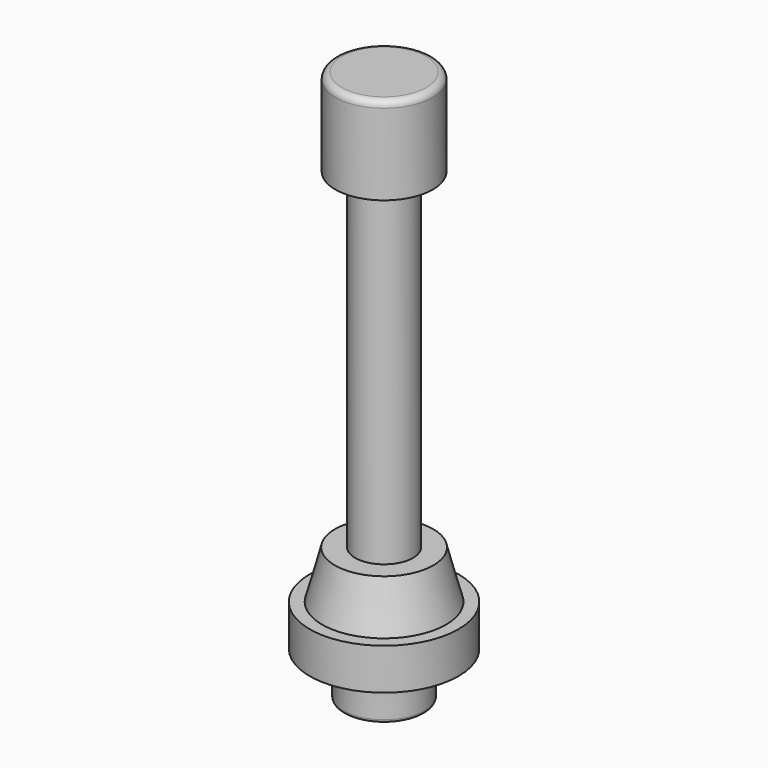
from build123d import *

# Parameters (mm, degrees)
F0_R      = 11.43
F1_DEPTH  = 6.35
F2_R      = 9.525
F3_DEPTH  = 7.366
F3_TAPER  = 15
F4_R      = 5.3975
F5_DEPTH  = 6.35
F6_R      = 3.683
F7_DEPTH  = 20.067
F8_R      = 4.445
F9_DEPTH  = 50.8
F10_R     = 7.493
F11_DEPTH = 13.462
F12_R     = 1.016
F14_R     = 6.223
F15_DEPTH = 6.096
F15_TAPER = -1
F16_R     = 0.508


with BuildPart() as f1:
    # F0 (on Top) → F1 (new body)
    with BuildSketch(Plane.XY):
        Circle(F0_R)
    extrude(amount=F1_DEPTH)

    # F2 (on face) → F3 (join)
    with BuildSketch(Plane.XY.offset(6.35)):
        Circle(F2_R)
    extrude(amount=F3_DEPTH, taper=F3_TAPER)

    # F4 (on face) → F5 (join)
    with BuildSketch(Plane(origin=(0, 0, 0), x_dir=(1, 0, 0), z_dir=(0, 0, -1))):
        Circle(F4_R)
    extrude(amount=F5_DEPTH)

    # F6 (on face) → F7 (cut, through all)
    with BuildSketch(Plane(origin=(0, 0, -6.35), x_dir=(1, 0, 0), z_dir=(0, 0, -1))):
        Circle(F6_R)
    extrude(amount=-F7_DEPTH, mode=Mode.SUBTRACT)


with BuildPart() as f9:
    # F8 (on face) → F9 (new body)
    with BuildSketch(Plane.XY.offset(13.716)):
        Circle(F8_R)
    extrude(amount=F9_DEPTH)


with BuildPart() as f11:
    # F10 (on face) → F11 (new body)
    with BuildSketch(Plane.XY.offset(64.516)):
        Circle(F10_R)
    extrude(amount=F11_DEPTH)

    # F12
    f12_edges = [f11.edges().sort_by_distance(p)[0] for p in [
        (-7.493, 0, 77.978),
    ]]
    fillet(f12_edges, radius=F12_R)


with BuildPart() as f15:
    # F14 (on offset) → F15 (new body)
    with BuildSketch(Plane(origin=(0, 0, -6.858), x_dir=(1, 0, 0), z_dir=(0, 0, -1))):
        Circle(F14_R)
    extrude(amount=-F15_DEPTH, taper=F15_TAPER)

    # F16
    f16_edges = [f15.edges().sort_by_distance(p)[0] for p in [
        (-6.223, 0, -6.858),
    ]]
    fillet(f16_edges, radius=F16_R)


solid = Compound([f1.part, f9.part, f11.part, f15.part])
